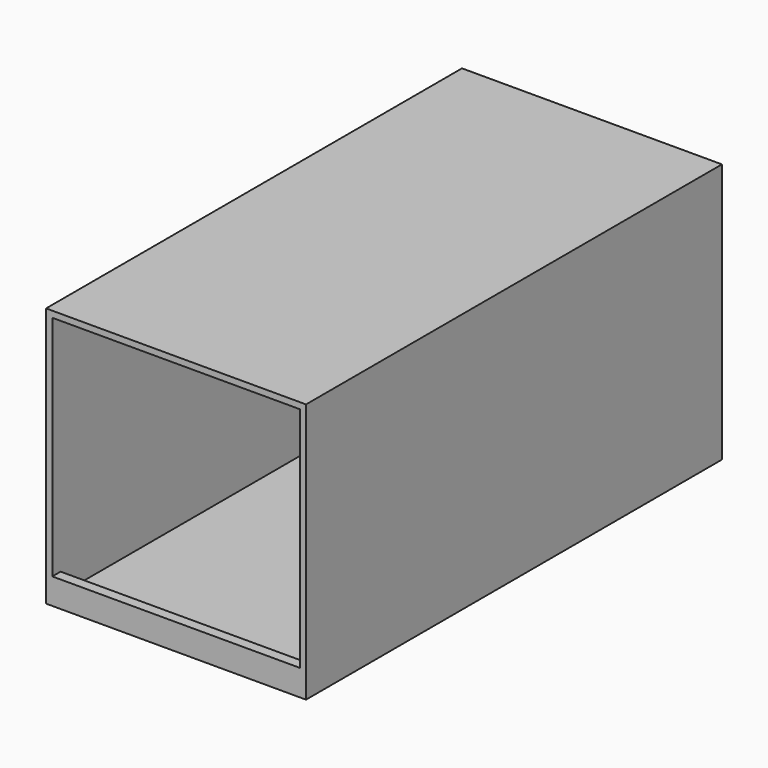
from build123d import *

# Parameters (mm, degrees)
F0_W     = 500
F0_H     = 1000
F1_DEPTH = 500
F2_T     = -12
F3_W     = 476
F3_H     = 38
F4_DEPTH = 20


with BuildPart() as f1:
    # F0 (on Top) → F1 (new body)
    with BuildSketch(Plane.XY):
        Rectangle(F0_W, F0_H)
    extrude(amount=F1_DEPTH)

    # F2
    f2_openings = [f1.faces().sort_by_distance(p)[0] for p in [
        (0, -500, 250),
    ]]
    offset(amount=F2_T, openings=f2_openings)

    # F3 (on face) → F4 (join)
    with BuildSketch(Plane.XZ.offset(500)):
        with Locations((0, 31)):
            Rectangle(F3_W, F3_H)
    extrude(amount=-F4_DEPTH)


solid = f1.part
